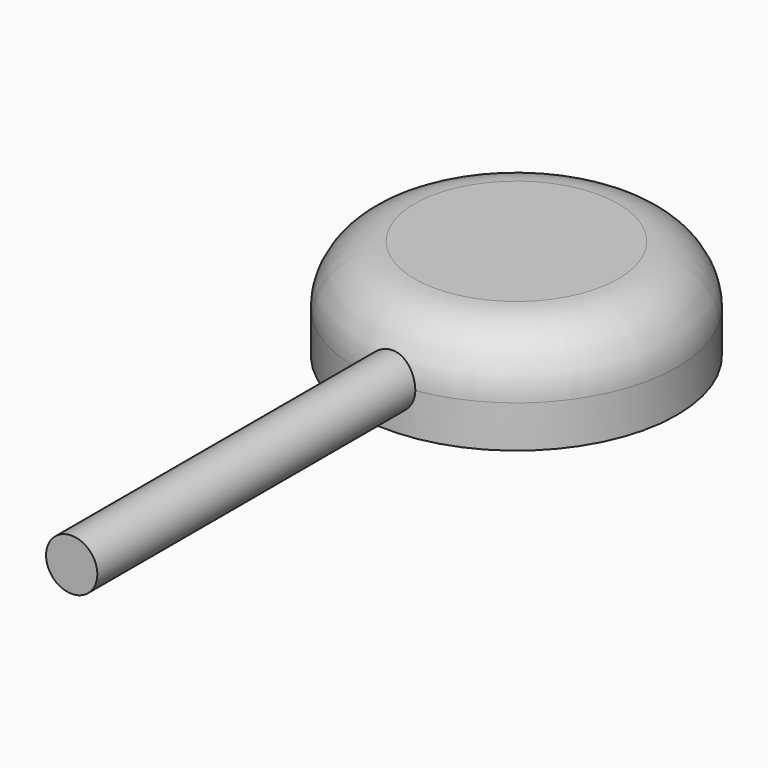
from build123d import *

# Parameters (mm, degrees)
F0_R     = 11.735047
F1_DEPTH = 7.366
F2_R     = 4.292472
F3_R     = 5.7912
F4_DEPTH = 0.762
F5_R     = 1.875011
F6_DEPTH = 40.64


with BuildPart() as f1:
    # F0 (on Top) → F1 (new body)
    with BuildSketch(Plane.XY):
        Circle(F0_R)
    extrude(amount=F1_DEPTH)

    # F2
    f2_edges = [f1.edges().sort_by_distance(p)[0] for p in [
        (-11.735047, 0, 7.366),
    ]]
    fillet(f2_edges, radius=F2_R)

    # F3 (on face) → F4 (cut)
    with BuildSketch(Plane(origin=(0, 0, 0), x_dir=(1, 0, 0), z_dir=(0, 0, -1))):
        Circle(F3_R)
    extrude(amount=-F4_DEPTH, mode=Mode.SUBTRACT)

    # F5 (on Front) → F6 (join)
    with BuildSketch(Plane.XZ):
        with Locations((0, 3.073911)):
            Circle(F5_R)
    extrude(amount=F6_DEPTH)


solid = f1.part
